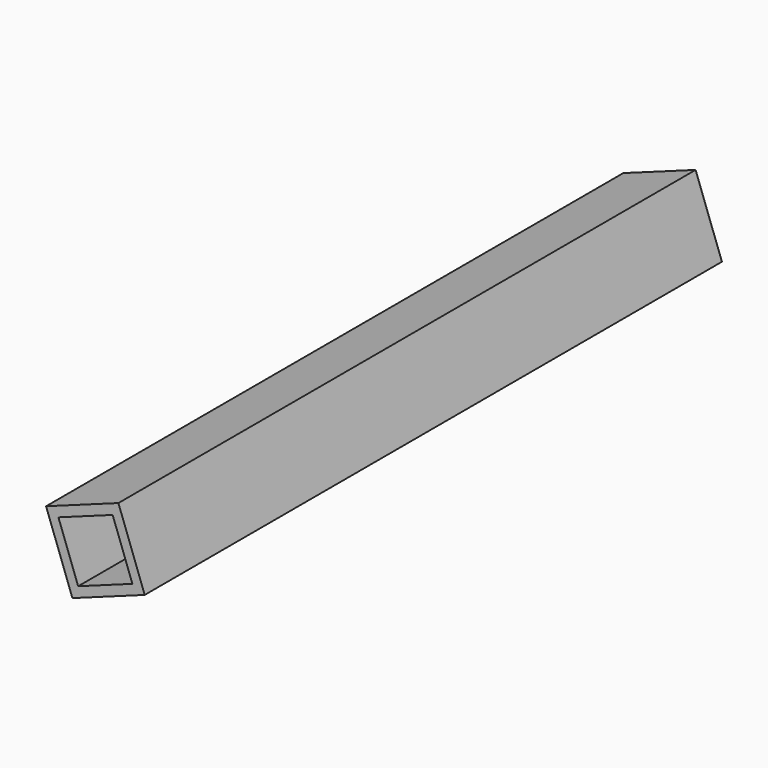
from build123d import *

# Parameters (mm, degrees)
BOX_W           = 50.8
BOX_H           = 476.25
BOX_DEPTH       = 50.8
BOX_PITCH_ANGLE = -20
THICKNESS_T     = -6.35


with BuildPart() as part:
    # Box → Box (new body)
    with BuildSketch(Plane.XY):
        with Locations((25.4, 238.125)):
            Rectangle(BOX_W, BOX_H)
    extrude(amount=BOX_DEPTH)


with BuildPart() as part_1:
    # Box pitch: moved
    add(part.part.rotate(Axis((0, 0, 0), (0, 1, 0)), BOX_PITCH_ANGLE))


with BuildPart() as part_2:
    # Box placement: moved
    add(part_1.part.moved(Location((866.852281, -479.425, 396.112887))))

    # Thickness
    thickness_openings = [part_2.faces().sort_by_distance(p)[0] for p in [
        (882.033162, -479.425, 428.668391),
        (882.033162, -3.175, 428.668391),
    ]]
    offset(amount=THICKNESS_T, openings=thickness_openings)


solid = part_2.part
